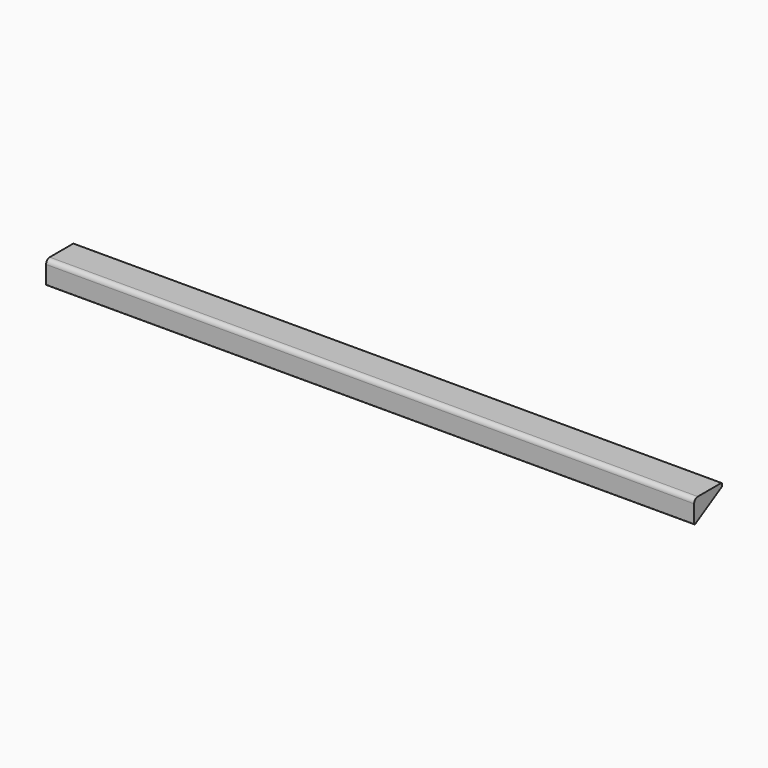
from build123d import *

# Parameters (mm, degrees)
F1_DEPTH = 906.78
F2_R     = 1.27


with BuildPart() as f1:
    # F0 (on Right) → F1 (new body)
    with BuildSketch(Plane.YZ):
        with BuildLine():
            Line((24.2951, 14.0208), (24.2951, 19.05))
            Line((24.2951, 19.05), (-17.9451, 19.05))
            ThreePointArc((-17.9451, 19.05), (-22.435228, 17.190128), (-24.2951, 12.7))
            Line((-24.2951, 12.7), (-24.2951, -14.032765))
            Line((-24.2951, -14.032765), (24.2951, 14.0208))
        make_face()
    extrude(amount=F1_DEPTH)

    # F2
    f2_edges = [f1.edges().sort_by_distance(p)[0] for p in [
        (453.39, -24.2951, -14.032765),
        (453.39, 24.2951, 19.05),
    ]]
    fillet(f2_edges, radius=F2_R)


solid = f1.part
